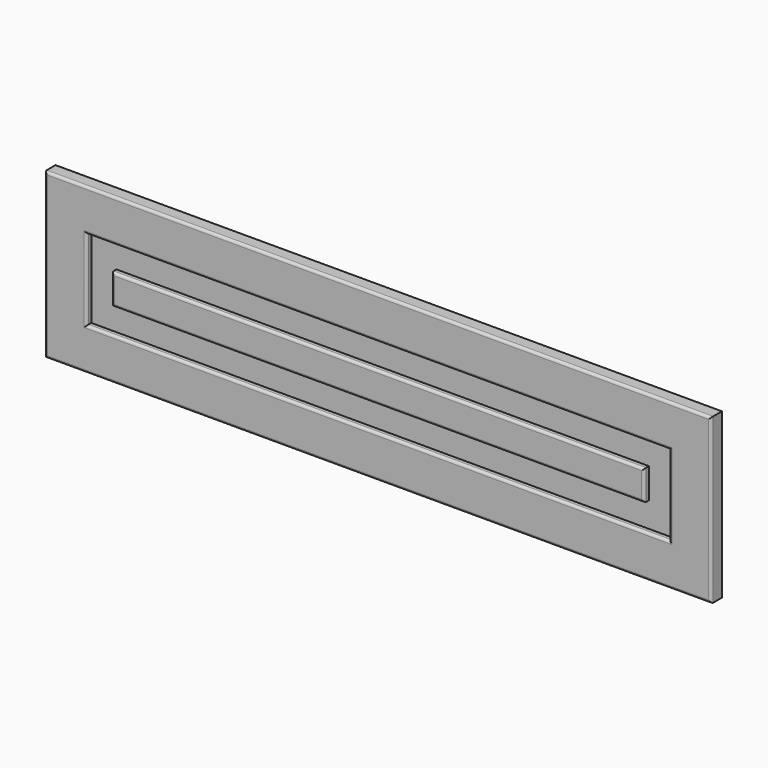
from build123d import *

# Parameters (mm, degrees)
F0_W      = 44.656470418
F0_H      = 33.8078811765
F1_DEPTH  = 16
F2_DEPTH  = 796
F3_DEPTH  = 196
F4_W      = 68.9578056335
F4_H      = 493.6993122101
F5_DEPTH  = 7
F6_DEPTH  = 9.7
F7_DEPTH  = 99.33
F8_DEPTH  = 99.33
F9_DEPTH  = 17.34
F10_DEPTH = 102.97
F11_W     = 35.2807044983
F11_H     = 492.0964837074
F12_DEPTH = 7
F13_DEPTH = 37.27
F14_DEPTH = 6.58
F15_DEPTH = 106.63
F16_DEPTH = 5.87
F17_DEPTH = 200
F18_DEPTH = 200
F19_DEPTH = 200
F20_DEPTH = 200
F21_DEPTH = 200
F22_DEPTH = 200
F23_DEPTH = 600
F24_DEPTH = 600
F25_DEPTH = 600
F26_DEPTH = 200
F27_DEPTH = 200
F28_DEPTH = 200
F29_DEPTH = 200
F30_DEPTH = 200
F31_DEPTH = 200
F32_DEPTH = 200
F33_DEPTH = 200
F34_DEPTH = 200
F35_R     = 3


with BuildPart() as f1:
    # F0 (on Front) → F1 (new body)
    with BuildSketch(Plane.XZ):
        with Locations((22.328235209, 16.9039405882)):
            Rectangle(F0_W, F0_H)
    extrude(amount=F1_DEPTH)

    # F2 (add): a face of the model
    f2_faces = [f1.faces().sort_by_distance(p)[0] for p in [
        (22.328235209, -8, 0),
    ]]
    extrude(f2_faces, amount=-F2_DEPTH)

    # F3 (add): a face of the model
    f3_faces = [f1.faces().sort_by_distance(p)[0] for p in [
        (0, -8, 398),
    ]]
    extrude(f3_faces, amount=-F3_DEPTH)

    # F4 (on face) → F5 (cut)
    with BuildSketch(Plane.XZ.offset(16)):
        with Locations((94.1769480705, 399.8196721077)):
            Rectangle(F4_W, F4_H)
    extrude(amount=-F5_DEPTH, mode=Mode.SUBTRACT)

    # F6 (cut): a face of the model
    f6_faces = [f1.faces().sort_by_distance(p)[0] for p in [
        (59.6980452538, -12.5, 399.8196721077),
    ]]
    extrude(f6_faces, amount=-F6_DEPTH, mode=Mode.SUBTRACT)

    # F7 (add): a face of the model
    f7_faces = [f1.faces().sort_by_distance(p)[0] for p in [
        (89.3269480705, -12.5, 646.6693282127),
    ]]
    extrude(f7_faces, amount=-F7_DEPTH)

    # F8 (cut): a face of the model
    f8_faces = [f1.faces().sort_by_distance(p)[0] for p in [
        (89.3269480705, -12.5, 646.6693282127),
    ]]
    extrude(f8_faces, amount=-F8_DEPTH, mode=Mode.SUBTRACT)

    # F9 (cut): a face of the model
    f9_faces = [f1.faces().sort_by_distance(p)[0] for p in [
        (128.6558508873, -12.5, 449.4846721077),
    ]]
    extrude(f9_faces, amount=-F9_DEPTH, mode=Mode.SUBTRACT)

    # F10 (cut): a face of the model
    f10_faces = [f1.faces().sort_by_distance(p)[0] for p in [
        (97.9969480705, -12.5, 152.9700160027),
    ]]
    extrude(f10_faces, amount=-F10_DEPTH, mode=Mode.SUBTRACT)

    # F11 (on face) → F12 (join)
    with BuildSketch(Plane.XZ.offset(9)):
        with Locations((91.7714834213, 432.6795041561)):
            Rectangle(F11_W, F11_H)
    extrude(amount=F12_DEPTH)

    # F13 (add): a face of the model
    f13_faces = [f1.faces().sort_by_distance(p)[0] for p in [
        (91.7714834213, -12.5, 678.7277460098),
    ]]
    extrude(f13_faces, amount=F13_DEPTH)

    # F14 (add): a face of the model
    f14_faces = [f1.faces().sort_by_distance(p)[0] for p in [
        (109.4118356705, -12.5, 451.3145041561),
    ]]
    extrude(f14_faces, amount=F14_DEPTH)

    # F15 (add): a face of the model
    f15_faces = [f1.faces().sort_by_distance(p)[0] for p in [
        (95.0614834213, -12.5, 186.6312623024),
    ]]
    extrude(f15_faces, amount=F15_DEPTH)

    # F16 (cut): a face of the model
    f16_faces = [f1.faces().sort_by_distance(p)[0] for p in [
        (74.1311311722, -12.5, 397.9995041561),
    ]]
    extrude(f16_faces, amount=-F16_DEPTH, mode=Mode.SUBTRACT)

    # F17 (add): a face of the model
    f17_faces = [f1.faces().sort_by_distance(p)[0] for p in [
        (196, -8, 398),
    ]]
    extrude(f17_faces, amount=F17_DEPTH)

    # F18 (cut): a face of the model
    f18_faces = [f1.faces().sort_by_distance(p)[0] for p in [
        (145.9958508873, -12.5, 397.9996721077),
    ]]
    extrude(f18_faces, amount=-F18_DEPTH, mode=Mode.SUBTRACT)

    # F19 (add): a face of the model
    f19_faces = [f1.faces().sort_by_distance(p)[0] for p in [
        (115.9918356705, -12.5, 397.9995041561),
    ]]
    extrude(f19_faces, amount=F19_DEPTH)

    # F20 (add): a face of the model
    f20_faces = [f1.faces().sort_by_distance(p)[0] for p in [
        (396, -8, 398),
    ]]
    extrude(f20_faces, amount=F20_DEPTH)

    # F21 (cut): a face of the model
    f21_faces = [f1.faces().sort_by_distance(p)[0] for p in [
        (345.9958508873, -12.5, 397.9996721077),
    ]]
    extrude(f21_faces, amount=-F21_DEPTH, mode=Mode.SUBTRACT)

    # F22 (add): a face of the model
    f22_faces = [f1.faces().sort_by_distance(p)[0] for p in [
        (315.9918356705, -12.5, 397.9995041561),
    ]]
    extrude(f22_faces, amount=F22_DEPTH)

    # F23 (cut): a face of the model
    f23_faces = [f1.faces().sort_by_distance(p)[0] for p in [
        (297.9964834213, -12.5, 80.0012623024),
    ]]
    extrude(f23_faces, amount=-F23_DEPTH, mode=Mode.SUBTRACT)

    # F24 (add): a face of the model
    f24_faces = [f1.faces().sort_by_distance(p)[0] for p in [
        (297.9969480705, -12.5, 50.0000160027),
    ]]
    extrude(f24_faces, amount=F24_DEPTH)

    # F25 (cut): a face of the model
    f25_faces = [f1.faces().sort_by_distance(p)[0] for p in [
        (298, -8, 0),
    ]]
    extrude(f25_faces, amount=-F25_DEPTH, mode=Mode.SUBTRACT)

    # F26 (add): a face of the model
    f26_faces = [f1.faces().sort_by_distance(p)[0] for p in [
        (298, -8, 600),
    ]]
    extrude(f26_faces, amount=F26_DEPTH)

    # F27 (cut): a face of the model
    f27_faces = [f1.faces().sort_by_distance(p)[0] for p in [
        (297.9969480705, -12.5, 650.0000160027),
    ]]
    extrude(f27_faces, amount=-F27_DEPTH, mode=Mode.SUBTRACT)

    # F28 (add): a face of the model
    f28_faces = [f1.faces().sort_by_distance(p)[0] for p in [
        (297.9964834213, -12.5, 680.0012623024),
    ]]
    extrude(f28_faces, amount=F28_DEPTH)

    # F29 (add): a face of the model
    f29_faces = [f1.faces().sort_by_distance(p)[0] for p in [
        (596, -8, 598),
    ]]
    extrude(f29_faces, amount=F29_DEPTH)

    # F30 (cut): a face of the model
    f30_faces = [f1.faces().sort_by_distance(p)[0] for p in [
        (545.9958508873, -12.5, 597.9996721077),
    ]]
    extrude(f30_faces, amount=-F30_DEPTH, mode=Mode.SUBTRACT)

    # F31 (add): a face of the model
    f31_faces = [f1.faces().sort_by_distance(p)[0] for p in [
        (515.9918356705, -12.5, 597.9995041561),
    ]]
    extrude(f31_faces, amount=F31_DEPTH)

    # F32 (cut): a face of the model
    f32_faces = [f1.faces().sort_by_distance(p)[0] for p in [
        (397.9964834213, -12.5, 480.0012623024),
    ]]
    extrude(f32_faces, amount=-F32_DEPTH, mode=Mode.SUBTRACT)

    # F33 (add): a face of the model
    f33_faces = [f1.faces().sort_by_distance(p)[0] for p in [
        (397.9969480705, -12.5, 450.0000160027),
    ]]
    extrude(f33_faces, amount=F33_DEPTH)

    # F34 (cut): a face of the model
    f34_faces = [f1.faces().sort_by_distance(p)[0] for p in [
        (398, -8, 400),
    ]]
    extrude(f34_faces, amount=-F34_DEPTH, mode=Mode.SUBTRACT)

    # F35
    f35_edges = [f1.edges().sort_by_distance(p)[0] for p in [
        (0, -16, 698),
        (398, -16, 796),
        (796, -16, 698),
        (398, -16, 600),
        (49.998045, -16, 697.999672),
        (397.996948, -16, 650.000016),
        (397.996948, -16, 745.999328),
        (745.995851, -16, 697.999672),
        (397.996483, -16, 715.997746),
        (80.001131, -16, 697.999504),
        (397.996483, -16, 680.001262),
        (715.991836, -16, 697.999504),
    ]]
    fillet(f35_edges, radius=F35_R)


solid = f1.part
